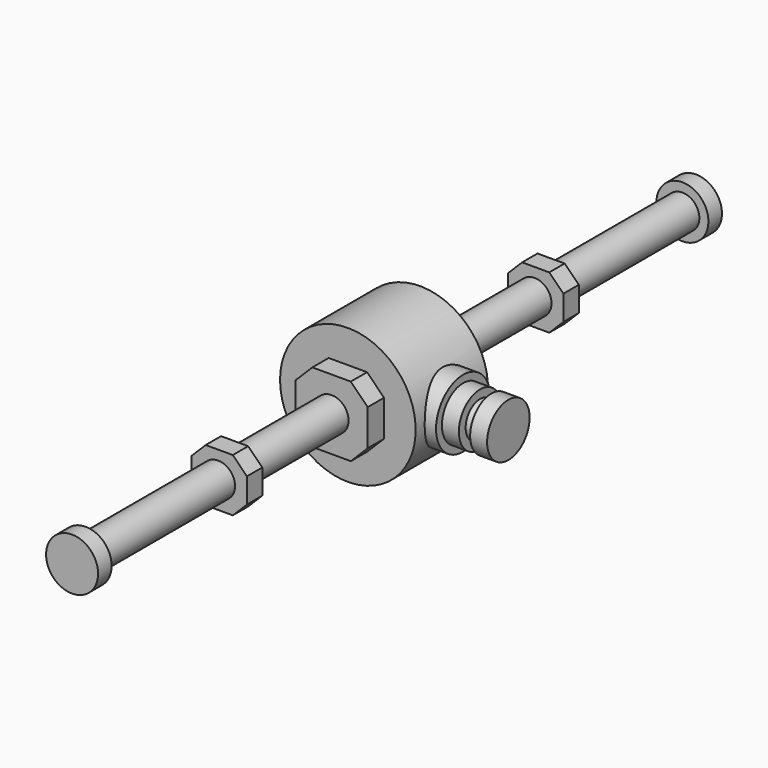
from build123d import *

# Parameters (mm, degrees)
BOX197_W                                          = 9.8
BOX197_H                                          = 3.4
BOX197_DEPTH                                      = 9.4
CHAMFER218_SIZE                                   = 2.5
CYLINDER692_R                                     = 3
CYLINDER692_DEPTH                                 = 138
CYLINDER688_R                                     = 4.7
CYLINDER688_DEPTH                                 = 3
CYLINDER689_R                                     = 3.2
CYLINDER689_DEPTH                                 = 8
CYLINDER687_R                                     = 4.7
CYLINDER687_DEPTH                                 = 3
CYLINDER686_R                                     = 6
CYLINDER686_DEPTH                                 = 5.5
FUSION088026007031024007017_PLACEMENT_ANGLE       = 180
BOX250_W                                          = 12.8
BOX250_H                                          = 3.6
BOX250_DEPTH                                      = 12.4
CHAMFER228009_SIZE                                = 3
BOX251_W                                          = 12.8
BOX251_H                                          = 3.6
BOX251_DEPTH                                      = 12.4
CHAMFER228008_SIZE                                = 3
CYLINDER685_R                                     = 12
CYLINDER685_DEPTH                                 = 16
CYLINDER690_R                                     = 4.6
CYLINDER690_DEPTH                                 = 3
CYLINDER691_R                                     = 4.6
CYLINDER691_DEPTH                                 = 3
BOX198_W                                          = 9.8
BOX198_H                                          = 3.4
BOX198_DEPTH                                      = 9.4
CHAMFER219_SIZE                                   = 2.5
FUSION088026007031024007008004058_PLACEMENT_ANGLE = 180


with BuildPart() as chamfer218:
    # Box197 → Box197 (new body)
    with BuildSketch(Plane(origin=(2.4, 22.8, 2.8), x_dir=(1, 0, 0), z_dir=(0, 0, 1))):
        with Locations((4.9, 1.7)):
            Rectangle(BOX197_W, BOX197_H)
    extrude(amount=BOX197_DEPTH)

    # Chamfer218
    chamfer218_edges = [chamfer218.edges().sort_by_distance(p)[0] for p in [
        (2.4, 24.5, 12.2),
        (2.4, 24.5, 2.8),
        (12.2, 24.5, 12.2),
        (12.2, 24.5, 2.8),
    ]]
    chamfer(chamfer218_edges, length=CHAMFER218_SIZE)


with BuildPart() as chamfer218_1:
    # Chamfer218 placement: moved
    add(chamfer218.part.moved(Location((-7.5, 33.5, -7.5))))


with BuildPart() as cylinder692:
    # Cylinder692 → Cylinder692 (new body)
    with BuildSketch(Plane(origin=(0, 24, 0), x_dir=(1, 0, 0), z_dir=(0, 1, 0))):
        Circle(CYLINDER692_R)
    extrude(amount=CYLINDER692_DEPTH)


with BuildPart() as cylinder688:
    # Cylinder688 → Cylinder688 (new body)
    with BuildSketch(Plane(origin=(26.5, 52, 7.5), x_dir=(0, 0, -1), z_dir=(1, 0, 0))):
        Circle(CYLINDER688_R)
    extrude(amount=CYLINDER688_DEPTH)


with BuildPart() as cylinder689:
    # Cylinder689 → Cylinder689 (new body)
    with BuildSketch(Plane(origin=(21.5, 52, 7.5), x_dir=(0, 0, -1), z_dir=(1, 0, 0))):
        Circle(CYLINDER689_R)
    extrude(amount=CYLINDER689_DEPTH)


with BuildPart() as cylinder687:
    # Cylinder687 → Cylinder687 (new body)
    with BuildSketch(Plane(origin=(21.5, 52, 7.5), x_dir=(0, 0, -1), z_dir=(1, 0, 0))):
        Circle(CYLINDER687_R)
    extrude(amount=CYLINDER687_DEPTH)


with BuildPart() as pinion_bearings_carving003:
    # Cylinder686 → Cylinder686 (new body)
    with BuildSketch(Plane(origin=(16, 52, 7.5), x_dir=(0, 0, -1), z_dir=(1, 0, 0))):
        Circle(CYLINDER686_R)
    extrude(amount=CYLINDER686_DEPTH)

    # Fusion088026007031024007017: union Cylinder688, Cylinder689, Cylinder687
    add(cylinder688.part)
    add(cylinder689.part)
    add(cylinder687.part)


with BuildPart() as pinion_bearings_carving003_1:
    # Fusion088026007031024007017 placement: moved
    add(pinion_bearings_carving003.part.moved(Location((7.5, 41, 7.5))).rotate(Axis((7.5, 41, 7.5), (0, 1, 0)), FUSION088026007031024007017_PLACEMENT_ANGLE))


with BuildPart() as chamfer228009:
    # Box250 → Box250 (new body)
    with BuildSketch(Plane(origin=(1.1, 21.9, 1.3), x_dir=(1, 0, 0), z_dir=(0, 0, 1))):
        with Locations((6.4, 1.8)):
            Rectangle(BOX250_W, BOX250_H)
    extrude(amount=BOX250_DEPTH)

    # Chamfer228009
    chamfer228009_edges = [chamfer228009.edges().sort_by_distance(p)[0] for p in [
        (1.1, 23.7, 13.7),
        (1.1, 23.7, 1.3),
        (13.9, 23.7, 13.7),
        (13.9, 23.7, 1.3),
    ]]
    chamfer(chamfer228009_edges, length=CHAMFER228009_SIZE)


with BuildPart() as chamfer228009_1:
    # Chamfer228009 placement: moved
    add(chamfer228009.part.moved(Location((-7.5, 59.5, -7.5))))


with BuildPart() as chamfer228008:
    # Box251 → Box251 (new body)
    with BuildSketch(Plane(origin=(1.1, 21.5, 1.3), x_dir=(1, 0, 0), z_dir=(0, 0, 1))):
        with Locations((6.4, 1.8)):
            Rectangle(BOX251_W, BOX251_H)
    extrude(amount=BOX251_DEPTH)

    # Chamfer228008
    chamfer228008_edges = [chamfer228008.edges().sort_by_distance(p)[0] for p in [
        (1.1, 23.3, 13.7),
        (1.1, 23.3, 1.3),
        (13.9, 23.3, 13.7),
        (13.9, 23.3, 1.3),
    ]]
    chamfer(chamfer228008_edges, length=CHAMFER228008_SIZE)


with BuildPart() as chamfer228008_1:
    # Chamfer228008 placement: moved
    add(chamfer228008.part.moved(Location((-7.5, 79.5, -7.5))))


with BuildPart() as cylinder685:
    # Cylinder685 → Cylinder685 (new body)
    with BuildSketch(Plane(origin=(0, 85, 0), x_dir=(1, 0, 0), z_dir=(0, 1, 0))):
        Circle(CYLINDER685_R)
    extrude(amount=CYLINDER685_DEPTH)


with BuildPart() as cylinder690:
    # Cylinder690 → Cylinder690 (new body)
    with BuildSketch(Plane(origin=(0, 24, 0), x_dir=(1, 0, 0), z_dir=(0, 1, 0))):
        Circle(CYLINDER690_R)
    extrude(amount=CYLINDER690_DEPTH)


with BuildPart() as cylinder691:
    # Cylinder691 → Cylinder691 (new body)
    with BuildSketch(Plane(origin=(0, 159, 0), x_dir=(1, 0, 0), z_dir=(0, 1, 0))):
        Circle(CYLINDER691_R)
    extrude(amount=CYLINDER691_DEPTH)


with BuildPart() as inner_carving_rear:
    # Box198 → Box198 (new body)
    with BuildSketch(Plane(origin=(2.4, 22.8, 2.8), x_dir=(1, 0, 0), z_dir=(0, 0, 1))):
        with Locations((4.9, 1.7)):
            Rectangle(BOX198_W, BOX198_H)
    extrude(amount=BOX198_DEPTH)

    # Chamfer219
    chamfer219_edges = [inner_carving_rear.edges().sort_by_distance(p)[0] for p in [
        (2.4, 24.5, 12.2),
        (2.4, 24.5, 2.8),
        (12.2, 24.5, 12.2),
        (12.2, 24.5, 2.8),
    ]]
    chamfer(chamfer219_edges, length=CHAMFER219_SIZE)


with BuildPart() as inner_carving_rear_1:
    # Chamfer219 placement: moved
    add(inner_carving_rear.part.moved(Location((-7.5, 103.5, -7.5))))

    # Fusion088026007031024007008004058: union Chamfer218, Cylinder692, pinion-bearings-carving003, Chamfer228009, Chamfer228008, Cylinder685, Cylinder690, Cylinder691
    add(chamfer218_1.part)
    add(cylinder692.part)
    add(pinion_bearings_carving003_1.part)
    add(chamfer228009_1.part)
    add(chamfer228008_1.part)
    add(cylinder685.part)
    add(cylinder690.part)
    add(cylinder691.part)


with BuildPart() as inner_carving_rear_2:
    # Fusion088026007031024007008004058 placement: moved
    add(inner_carving_rear_1.part.moved(Location((75, -93, 46))).rotate(Axis((75, -93, 46), (0, 1, 0)), FUSION088026007031024007008004058_PLACEMENT_ANGLE))


solid = inner_carving_rear_2.part
